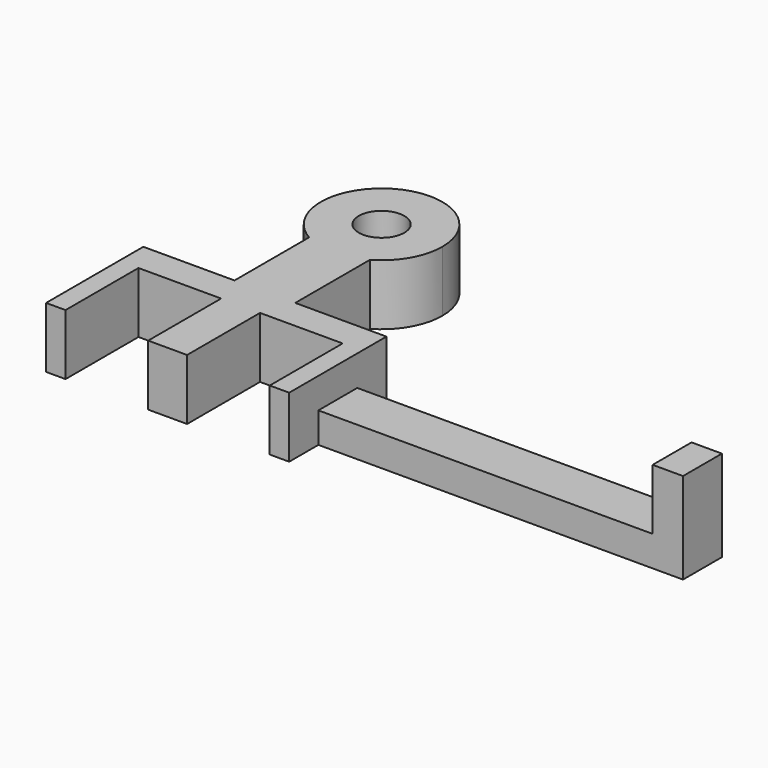
from build123d import *

# Parameters (mm, degrees)
F0_R     = 4.7625
F1_DEPTH = 12.7
F2_W     = 10.16
F2_H     = 6.35
F3_DEPTH = 76.2
F4_W     = 6.35
F4_H     = 10.16
F5_DEPTH = 12.7


with BuildPart() as f1:
    # F0 (on Top) → F1 (new body)
    with BuildSketch(Plane.XY):
        with BuildLine():
            Line((-31.75, 44.881477), (-31.75, 25.4))
            Line((-31.75, 25.4), (-19.05, 25.4))
            Line((-19.05, 25.4), (-19.05, 44.881477))
            ThreePointArc((-19.05, 44.881477), (-25.4, 43.18), (-31.75, 44.881477))
        make_face()
        with BuildLine():
            ThreePointArc((-12.7, 55.88), (-31.75, 66.878523), (-31.75, 44.881477))
            ThreePointArc((-31.75, 44.881477), (-25.4, 43.18), (-19.05, 44.881477))
            ThreePointArc((-19.05, 44.881477), (-14.401477, 49.53), (-12.7, 55.88))
        make_face()
        with Locations((-25.4, 55.88)):
            Circle(F0_R, mode=Mode.SUBTRACT)
        Polygon((-50.8, 25.4), (-50.8, 0), (-46.736, 0), (-46.736, 19.05), (-29.464, 19.05), (-29.464, 0), (-21.336, 0), (-21.336, 19.05), (-4.064, 19.05), (-4.064, 0), (0, 0), (0, 25.4), (-19.05, 25.4), (-31.75, 25.4), align=None)
    extrude(amount=F1_DEPTH)

    # F2 (on face) → F3 (join)
    with BuildSketch(Plane.YZ):
        with Locations((12.7, 3.175)):
            Rectangle(F2_W, F2_H)
    extrude(amount=F3_DEPTH)

    # F4 (on face) → F5 (join)
    with BuildSketch(Plane.XY.offset(6.35)):
        with Locations((73.025, 12.7)):
            Rectangle(F4_W, F4_H)
    extrude(amount=F5_DEPTH)


solid = f1.part
